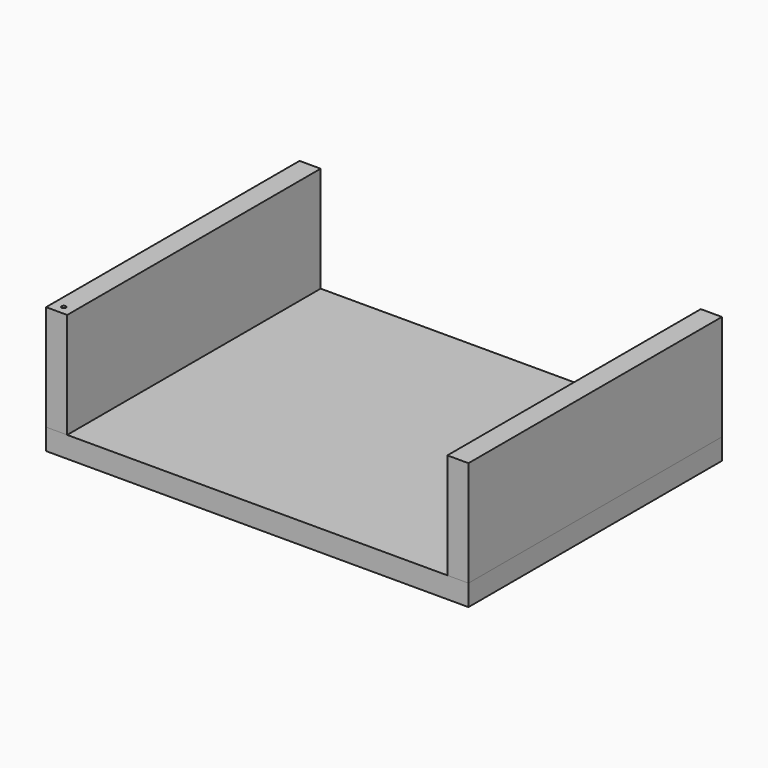
from build123d import *

# Parameters (mm, degrees)
F0_W          = 100
F0_H          = 75
F1_DEPTH      = 5
F2_W          = 5
F2_H          = 75
F3_DEPTH      = 25
F5_DEPTH      = 100
F5_DEPTH_BACK = 25


with BuildPart() as f1:
    # F0 (on Top) → F1 (new body)
    with BuildSketch(Plane.XY):
        Rectangle(F0_W, F0_H)
    extrude(amount=F1_DEPTH)


with BuildPart() as f3:
    # F2 (on face) → F3 (new body)
    with BuildSketch(Plane.XY.offset(5)):
        with Locations((-47.5, 0)):
            Rectangle(F2_W, F2_H)
        with Locations((47.5, 0)):
            Rectangle(F2_W, F2_H)
    extrude(amount=F3_DEPTH)


with BuildPart() as f5_tool:
    # F4 (on face) → F5 (new body, two sides)
    with BuildSketch(Plane(origin=(0, 0, 0), x_dir=(1, 0, 0), z_dir=(0, 0, -1))) as f5_sk:
        with BuildLine():
            ThreePointArc((-47.5, 34.900923), (-47.146447, 35.04737), (-47, 35.400923))
            ThreePointArc((-47, 35.400923), (-47.146447, 35.754477), (-47.5, 35.900923))
            Line((-47.5, 35.900923), (-47.5, 34.900923))
        make_face()
        with BuildLine():
            Line((-47.5, 34.900923), (-47.5, 35.900923))
            ThreePointArc((-47.5, 35.900923), (-48, 35.400923), (-47.5, 34.900923))
        make_face()
    extrude(amount=-F5_DEPTH)
    extrude(f5_sk.sketch, amount=-F5_DEPTH_BACK)


with BuildPart() as f1_1:
    add(f1.part)

    # F5: cut by f5_tool
    add(f5_tool.part, mode=Mode.SUBTRACT)


with BuildPart() as f3_1:
    add(f3.part)

    # F5: cut by f5_tool
    add(f5_tool.part, mode=Mode.SUBTRACT)


solid = Compound([f1_1.part, f3_1.part])
